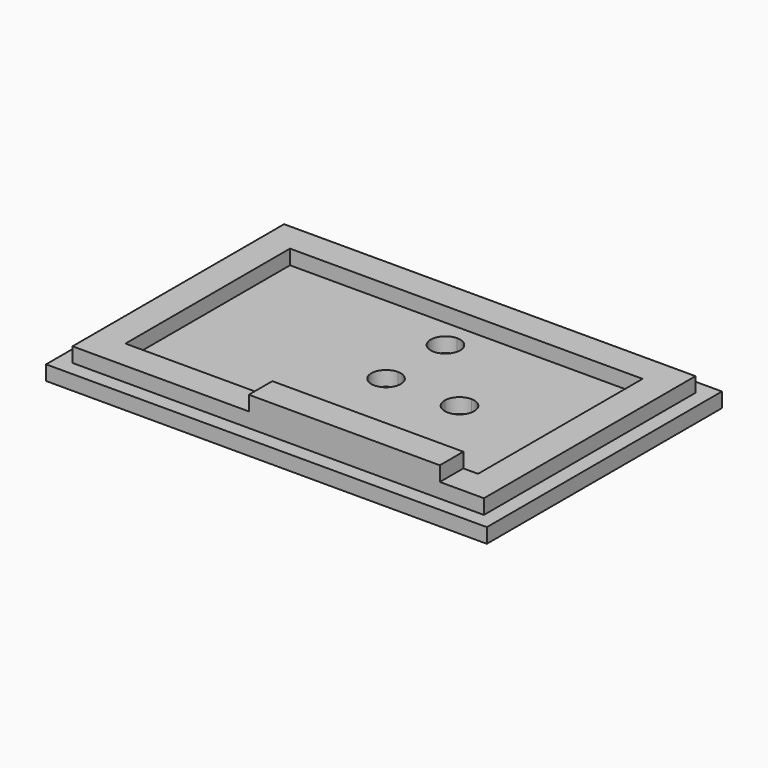
from build123d import *

# Parameters (mm, degrees)
F0_W     = 76.2
F0_H     = 50.8
F1_DEPTH = 2.54
F2_W     = 71.12
F2_H     = 45.72
F3_DEPTH = 2.54
F4_W     = 33.02
F4_H     = 5.08
F5_DEPTH = 2.54
F7_DEPTH = 2.54
F9_DEPTH = 25.4


with BuildPart() as f1:
    # F0 (on Top) → F1 (new body)
    with BuildSketch(Plane.XY):
        with Locations((13.626695, -1.068337)):
            Rectangle(F0_W, F0_H)
    extrude(amount=F1_DEPTH)

    # F2 (on face) → F3 (join)
    with BuildSketch(Plane.XY.offset(2.54)):
        with Locations((13.626695, -1.068337)):
            Rectangle(F2_W, F2_H)
    extrude(amount=F3_DEPTH)

    # F4 (on face) → F5 (join)
    with BuildSketch(Plane.XY.offset(5.08)):
        with Locations((25.056695, -21.388337)):
            Rectangle(F4_W, F4_H)
    extrude(amount=F5_DEPTH)

    # F6 (on face) → F7 (cut)
    with BuildSketch(Plane.XY.offset(5.08)):
        Polygon((44.106695, 16.711663), (-16.853305, 16.711663), (-16.853305, -18.848337), (8.546695, -18.848337), (41.566695, -18.848337), (44.106695, -18.848337), align=None)
    extrude(amount=-F7_DEPTH, mode=Mode.SUBTRACT)

    # F8 (on face) → F9 (cut)
    with BuildSketch(Plane(origin=(0, 0, 0), x_dir=(1, 0, 0), z_dir=(0, 0, -1))):
        with BuildLine():
            Line((13.626695, 13.768337), (13.626695, 16.308337))
            ThreePointArc((13.626695, 16.308337), (11.830644, 15.564388), (11.086695, 13.768337))
            Line((11.086695, 13.768337), (13.626695, 13.768337))
        make_face()
        with BuildLine():
            ThreePointArc((11.086695, 13.768337), (13.626695, 11.228337), (16.166695, 13.768337))
            ThreePointArc((16.166695, 13.768337), (15.422746, 15.564388), (13.626695, 16.308337))
            Line((13.626695, 16.308337), (13.626695, 13.768337))
            Line((13.626695, 13.768337), (11.086695, 13.768337))
        make_face()
        with BuildLine():
            Line((13.978975, 1.068088), (13.990214, -1.471887))
            ThreePointArc((13.990214, -1.471887), (15.778995, -0.723985), (16.518975, 1.068088))
            Line((16.518975, 1.068088), (13.978975, 1.068088))
        make_face()
        with BuildLine():
            ThreePointArc((16.518975, 1.068088), (12.178954, 2.860161), (13.990214, -1.471887))
            Line((13.990214, -1.471887), (13.978975, 1.068088))
            Line((13.978975, 1.068088), (16.518975, 1.068088))
        make_face()
        with BuildLine():
            ThreePointArc((14.046408, -14.171265), (14.068887, -14.171564), (14.091368, -14.171663))
            ThreePointArc((14.091368, -14.171663), (15.887419, -13.427715), (16.631368, -11.631663))
            ThreePointArc((16.631368, -11.631663), (15.863418, -9.811927), (14.023935, -9.092559))
            Line((14.023935, -9.092559), (14.046408, -14.171265))
        make_face()
        with BuildLine():
            ThreePointArc((14.023935, -9.092559), (11.551393, -11.642903), (14.046408, -14.171265))
            Line((14.046408, -14.171265), (14.023935, -9.092559))
        make_face()
        with BuildLine():
            Line((26.678975, 1.068088), (26.690214, -1.471887))
            ThreePointArc((26.690214, -1.471887), (28.478995, -0.723985), (29.218975, 1.068088))
            ThreePointArc((29.218975, 1.068088), (26.678975, 3.608088), (24.138975, 1.068088))
            Line((24.138975, 1.068088), (26.678975, 1.068088))
        make_face()
        with BuildLine():
            ThreePointArc((24.138975, 1.068088), (24.886902, -0.731933), (26.690214, -1.471887))
            Line((26.690214, -1.471887), (26.678975, 1.068088))
            Line((26.678975, 1.068088), (24.138975, 1.068088))
        make_face()
    extrude(amount=-F9_DEPTH, mode=Mode.SUBTRACT)


solid = f1.part
